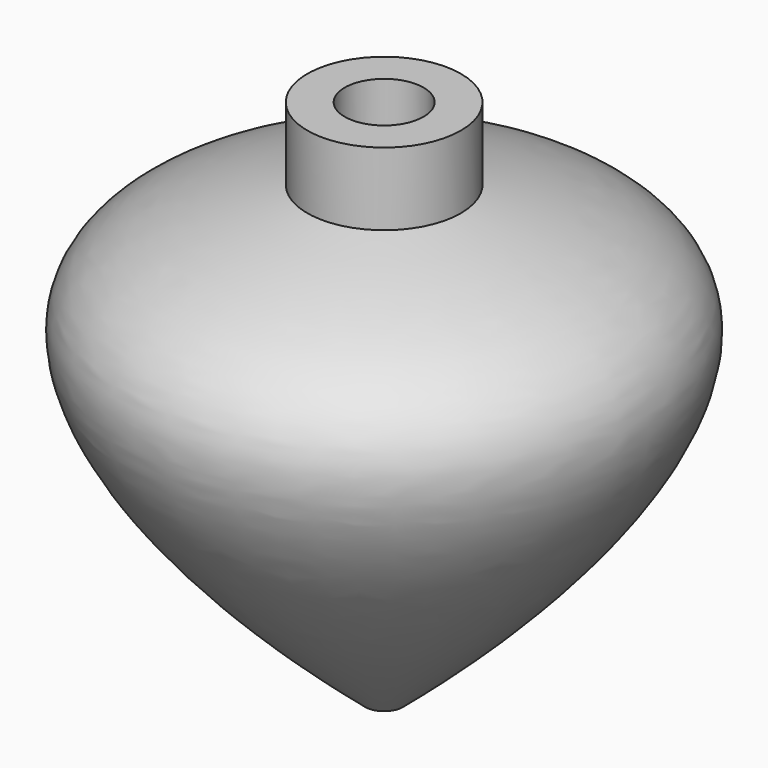
from build123d import *

# Parameters (mm, degrees)
F2_R     = 1.5875
F3_DEPTH = 9.525
F4_R     = 4.7625
F5_DEPTH = 9.525


with BuildPart() as f1:
    # F0 (on Front) → F1 (revolve)
    with BuildSketch(Plane.XZ):
        with BuildLine():
            add(Edge.make_bspline(
                [(2.2846506909, -40.7209396362), (21.63124053, -24.4006685783), (41.3189275658, 1.3811586384), (23.189734926, 10.8521669118), (9.2686334939, 14.001551751)],
                knots=[0, 0, 0, 0, 0.579409192, 1, 1, 1, 1], degree=3))
            Line((9.2686334939, 14.001551751), (9.2686334939, 22.7790603638))
            Line((9.2686334939, 22.7790603638), (0, 22.7790603638))
            Line((0, 22.7790603638), (0, -40.7209396362))
            Line((0, -40.7209396362), (2.2846506909, -40.7209396362))
        make_face()
    revolve(axis=Axis((0, 0, -8.9709396362), (0, 0, -1)))

    # F2 (on face) → F3 (cut)
    with BuildSketch(Plane(origin=(0, 0, -40.7209396362), x_dir=(1, 0, 0), z_dir=(0, 0, -1))):
        Circle(F2_R)
    extrude(amount=-F3_DEPTH, mode=Mode.SUBTRACT)

    # F4 (on face) → F5 (cut)
    with BuildSketch(Plane.XY.offset(22.7790603638)):
        Circle(F4_R)
    extrude(amount=-F5_DEPTH, mode=Mode.SUBTRACT)


solid = f1.part
